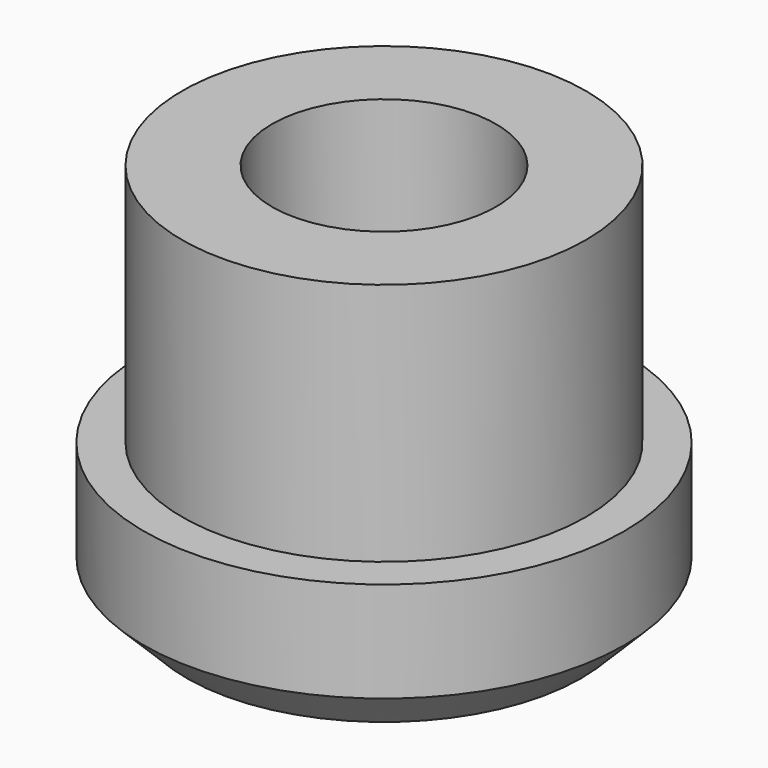
from build123d import *

# Parameters (mm, degrees)
F0_R     = 8.509
F1_DEPTH = 5.08
F2_R     = 7.1501
F3_DEPTH = 8.636
F5_D     = 7.9375
F6_SIZE2 = 1.524
F6_SIZE  = 1.524


with BuildPart() as f1:
    # F0 (on Top) → F1 (new body)
    with BuildSketch(Plane.XY):
        Circle(F0_R)
    extrude(amount=F1_DEPTH)

    # F2 (on face) → F3 (join)
    with BuildSketch(Plane.XY.offset(5.08)):
        Circle(F2_R)
    extrude(amount=F3_DEPTH)

    # F5 (through all)
    with Locations(Plane(origin=(0, 0, 0), x_dir=(1, 0, 0), z_dir=(0, 0, -1))):
        with Locations((0, 0)):
            Hole(F5_D / 2)

    # F6
    f6_edges = [f1.edges().sort_by_distance(p)[0] for p in [
        (-8.509, 0, 0),
    ]]
    chamfer(f6_edges, length=F6_SIZE, length2=F6_SIZE2)


solid = f1.part
